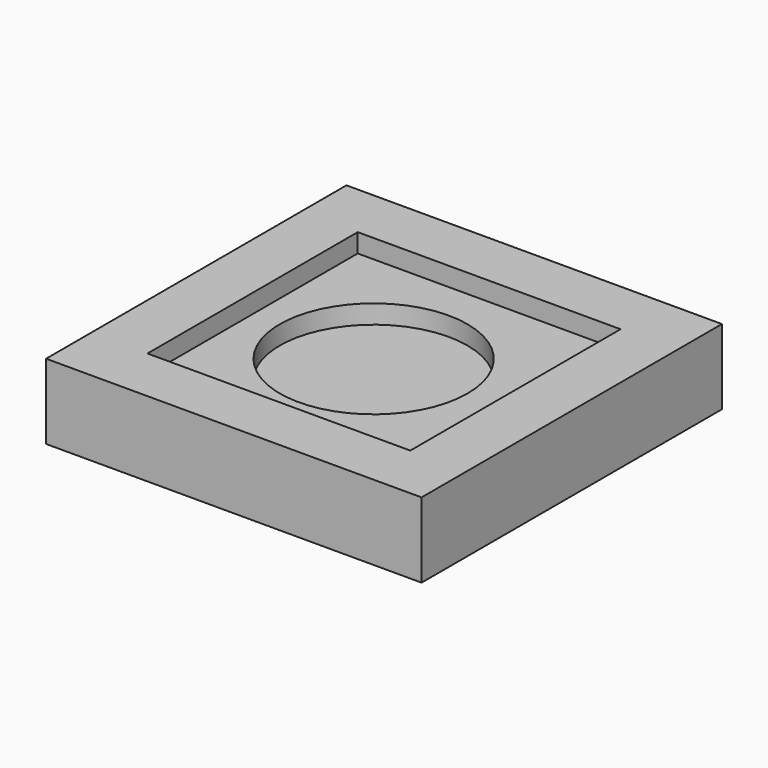
from build123d import *

# Parameters (mm, degrees)
F0_W     = 100
F0_H     = 100
F1_DEPTH = 20
F2_R     = 25
F3_DEPTH = 10
F4_W     = 70
F4_H     = 70
F5_DEPTH = 5


with BuildPart() as f1:
    # F0 (on Top) → F1 (new body)
    with BuildSketch(Plane.XY):
        Rectangle(F0_W, F0_H)
    extrude(amount=F1_DEPTH)

    # F2 (on face) → F3 (cut)
    with BuildSketch(Plane.XY.offset(20)):
        with Locations((-2.75913, 0)):
            Circle(F2_R)
    extrude(amount=-F3_DEPTH, mode=Mode.SUBTRACT)

    # F4 (on face) → F5 (cut)
    with BuildSketch(Plane.XY.offset(20)):
        Rectangle(F4_W, F4_H)
    extrude(amount=-F5_DEPTH, mode=Mode.SUBTRACT)


solid = f1.part
